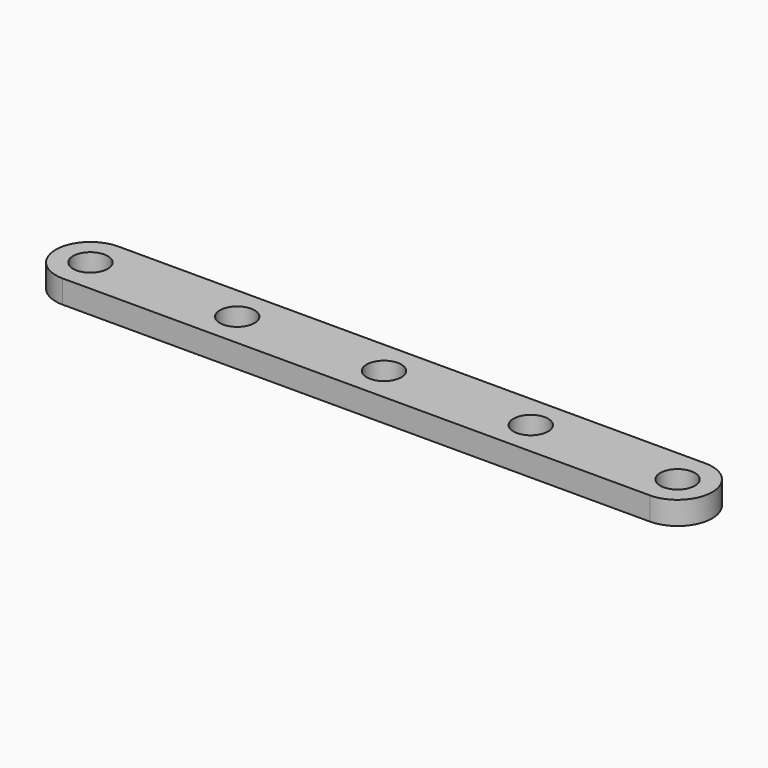
from build123d import *

# Parameters (mm, degrees)
F0_R     = 1.5
F1_DEPTH = 2


with BuildPart() as f1:
    # F0 (on Top) → F1 (new body)
    with BuildSketch(Plane.XY):
        with BuildLine():
            Line((6.03178, 3), (-44.76822, 3))
            ThreePointArc((-44.76822, 3), (-47.76822, 0), (-44.76822, -3))
            Line((-44.76822, -3), (6.03178, -3))
            ThreePointArc((6.03178, -3), (9.03178, 0), (6.03178, 3))
        make_face()
        with Locations((-44.76822, 0)):
            Circle(F0_R, mode=Mode.SUBTRACT)
        with Locations((-32.06822, 0)):
            Circle(F0_R, mode=Mode.SUBTRACT)
        with Locations((-19.36822, 0)):
            Circle(F0_R, mode=Mode.SUBTRACT)
        with Locations((-6.66822, 0)):
            Circle(F0_R, mode=Mode.SUBTRACT)
        with Locations((6.03178, 0)):
            Circle(F0_R, mode=Mode.SUBTRACT)
    extrude(amount=F1_DEPTH)


solid = f1.part
